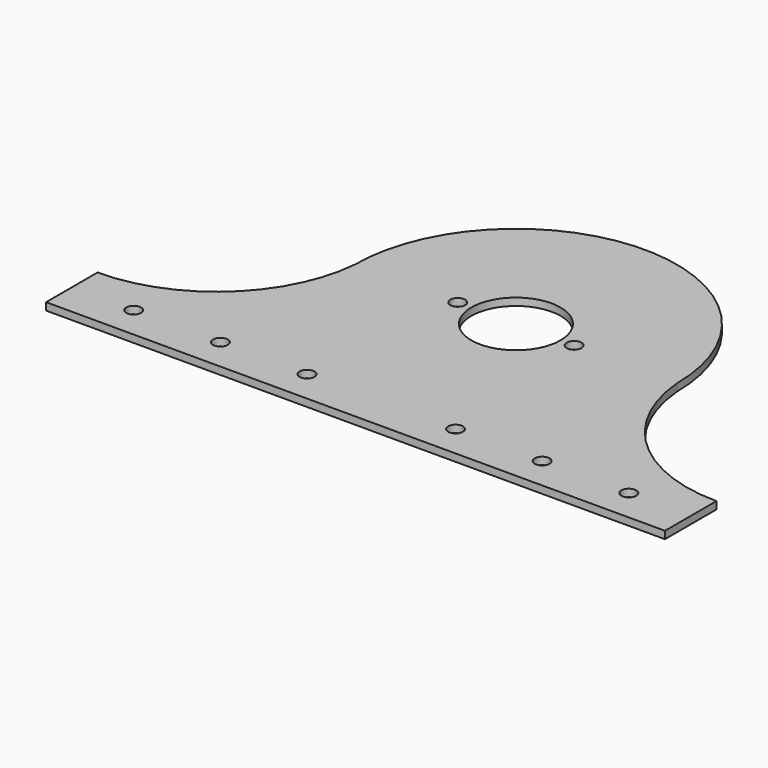
from build123d import *

# Parameters (mm, degrees)
F0_R     = 3
F0_R_2   = 18
F1_DEPTH = 3


with BuildPart() as f1:
    # F0 (on Top) → F1 (new body)
    with BuildSketch(Plane.XY):
        with BuildLine():
            ThreePointArc((125, -55), (84.302949, -39.169511), (65, 0))
            ThreePointArc((65, 0), (0, 65), (-65, 0))
            ThreePointArc((-65, 0), (-84.302949, -39.169511), (-125, -55))
            Line((-125, -55), (-125, -81))
            Line((-125, -81), (125, -81))
            Line((125, -81), (125, -55))
        make_face()
        with Locations((-100, -68)):
            Circle(F0_R, mode=Mode.SUBTRACT)
        with Locations((-65, -68)):
            Circle(F0_R, mode=Mode.SUBTRACT)
        with Locations((-30, -68)):
            Circle(F0_R, mode=Mode.SUBTRACT)
        with Locations((30, -68)):
            Circle(F0_R, mode=Mode.SUBTRACT)
        with Locations((65, -68)):
            Circle(F0_R, mode=Mode.SUBTRACT)
        with Locations((100, -68)):
            Circle(F0_R, mode=Mode.SUBTRACT)
        with Locations((-23.5, 0)):
            Circle(F0_R, mode=Mode.SUBTRACT)
        Circle(F0_R_2, mode=Mode.SUBTRACT)
        with Locations((23.5, 0)):
            Circle(F0_R, mode=Mode.SUBTRACT)
    extrude(amount=F1_DEPTH)


solid = f1.part
